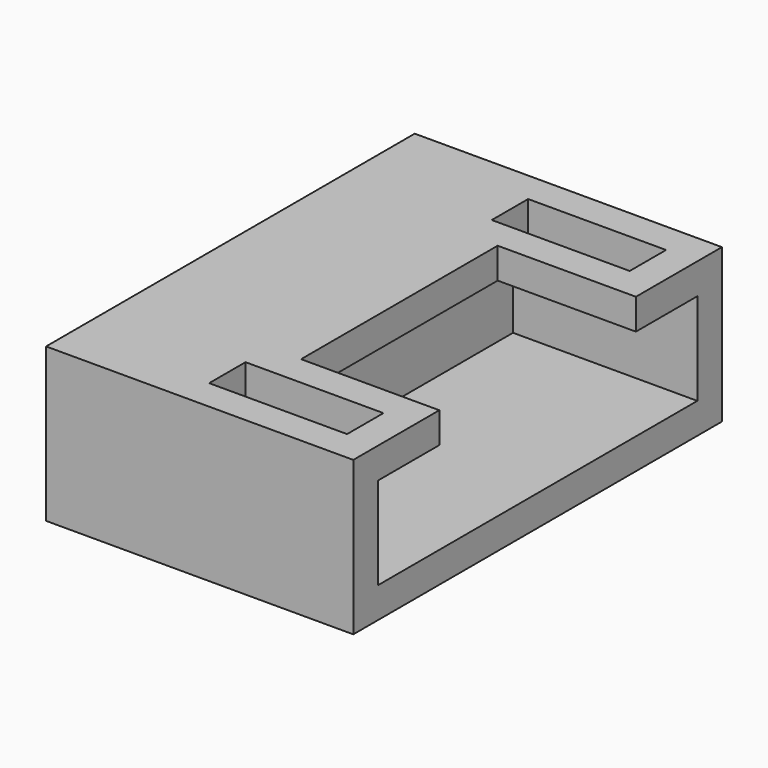
from build123d import *

# Parameters (mm, degrees)
SKETCH062_W     = 15
SKETCH062_H     = 5
PAD021_DEPTH    = 10
SKETCH055_W     = 13
SKETCH055_H     = 3
POCKET012_DEPTH = 6
SKETCH056_W     = 8
SKETCH056_H     = 1
POCKET019_DEPTH = 4.5
SKETCH052_W     = 1.48
SKETCH052_H     = 4.49
POCKET021_DEPTH = 2


with BuildPart() as part:
    # Sketch062 → Pad021 (new body)
    with BuildSketch(Plane.YZ):
        with Locations((0, 2.5)):
            Rectangle(SKETCH062_W, SKETCH062_H)
    extrude(amount=PAD021_DEPTH)

    # Sketch055 (on Face6 of Pad021) → Pocket012 (cut)
    with BuildSketch(Plane.YZ.offset(10)):
        with Locations((0, 2.5)):
            Rectangle(SKETCH055_W, SKETCH055_H)
    extrude(amount=-POCKET012_DEPTH, mode=Mode.SUBTRACT)

    # Sketch056 (on Face5 of Pocket012) → Pocket019 (cut)
    with BuildSketch(Plane.YZ.offset(10)):
        with Locations((0, 4.5)):
            Rectangle(SKETCH056_W, SKETCH056_H)
    extrude(amount=-POCKET019_DEPTH, mode=Mode.SUBTRACT)

    # Sketch052 (on Face6 of Pocket019) → Pocket021 (cut)
    with BuildSketch(Plane(origin=(0, 0, 5), x_dir=(0, -1, 0), z_dir=(0, 0, 1))):
        with Locations((-5.75, 6.745)):
            Rectangle(SKETCH052_W, SKETCH052_H)
        with Locations((5.75, 6.745)):
            Rectangle(SKETCH052_W, SKETCH052_H)
    extrude(amount=-POCKET021_DEPTH, mode=Mode.SUBTRACT)


solid = part.part
